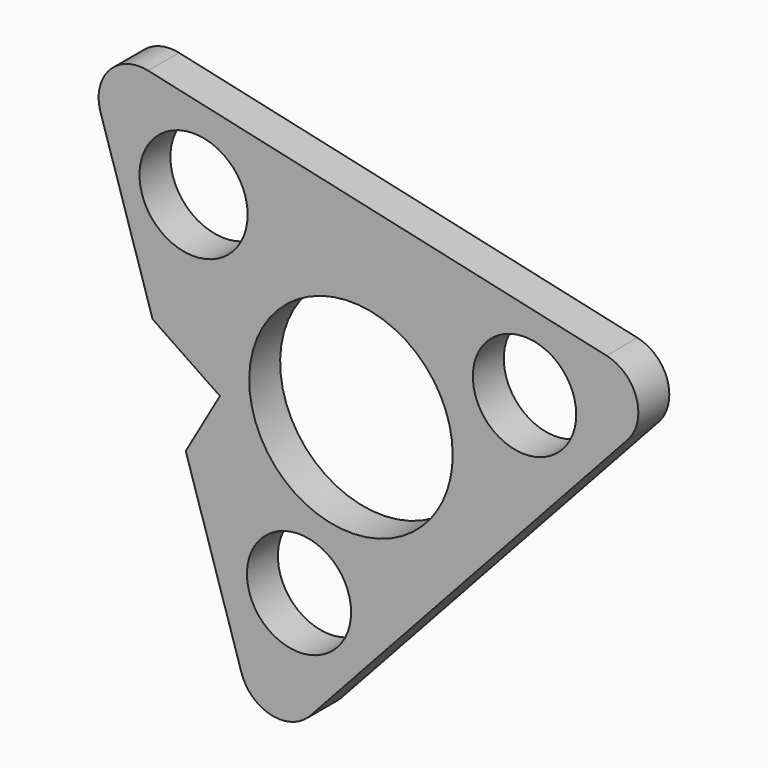
from build123d import *

# Parameters (mm, degrees)
F0_R     = 6.499611
F0_R_2   = 6.748497
F0_R_3   = 6.451892
F1_DEPTH = 4.826
F2_R     = 5.08


with BuildPart() as f1:
    # F0 (on Front) → F1 (new body)
    with BuildSketch(Plane.XZ):
        Polygon((-9.602852, -191.570323), (0, -222.072359), (20.980663, -199.195719), (51.504101, -165.913944), (-22.882563, -149.389291), (-13.740194, -178.42867), (-5.334256, -184.135315), align=None)
        with Locations((4.538138, -202.582002)):
            Circle(F0_R, mode=Mode.SUBTRACT)
        with BuildLine():
            ThreePointArc((23.719741, -181.157266), (23.015442, -185.327775), (20.980663, -189.035719))
            ThreePointArc((20.980663, -189.035719), (-0.975961, -176.986757), (23.719741, -181.157266))
        make_face(mode=Mode.SUBTRACT)
        with Locations((-8.626509, -163.088083)):
            Circle(F0_R_2, mode=Mode.SUBTRACT)
        with Locations((32.683235, -171.713188)):
            Circle(F0_R_3, mode=Mode.SUBTRACT)
        Polygon((-9.602852, -191.570323), (0, -222.072359), (20.980663, -199.195719), (51.504101, -165.913944), (-22.882563, -149.389291), (-13.740194, -178.42867), (-5.334256, -184.135315), align=None)
        with Locations((4.538138, -202.582002)):
            Circle(F0_R, mode=Mode.SUBTRACT)
        with BuildLine():
            ThreePointArc((23.719741, -181.157266), (23.015442, -185.327775), (20.980663, -189.035719))
            ThreePointArc((20.980663, -189.035719), (-0.975961, -176.986757), (23.719741, -181.157266))
        make_face(mode=Mode.SUBTRACT)
        with Locations((-8.626509, -163.088083)):
            Circle(F0_R_2, mode=Mode.SUBTRACT)
        with Locations((32.683235, -171.713188)):
            Circle(F0_R_3, mode=Mode.SUBTRACT)
    extrude(amount=F1_DEPTH)

    # F2
    f2_edges = [f1.edges().sort_by_distance(p)[0] for p in [
        (0, -2.413, -222.072359),
        (51.504101, -2.413, -165.913944),
        (-22.882563, -2.413, -149.389291),
    ]]
    fillet(f2_edges, radius=F2_R)


solid = f1.part
